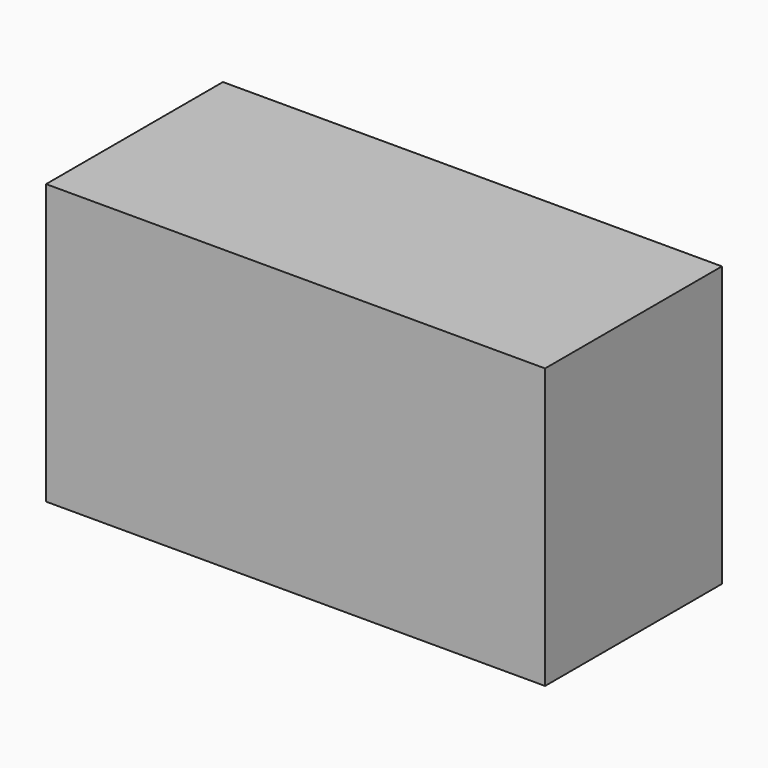
from build123d import *

# Parameters (mm, degrees)
BOX009_W     = 76.75
BOX009_H     = 34
BOX009_DEPTH = 34
BOX012_W     = 76.75
BOX012_H     = 34
BOX012_DEPTH = 43
BOX010_W     = 40
BOX010_H     = 34
BOX010_DEPTH = 34


with BuildPart() as cube009:
    # Box009 → Box009 (new body)
    with BuildSketch(Plane(origin=(-44.75, -43, -3), x_dir=(1, 0, 0), z_dir=(0, 0, 1))):
        with Locations((38.375, 17)):
            Rectangle(BOX009_W, BOX009_H)
    extrude(amount=BOX009_DEPTH)


with BuildPart() as cube012:
    # Box012 → Box012 (new body)
    with BuildSketch(Plane(origin=(-44.75, -43, -7.5), x_dir=(1, 0, 0), z_dir=(0, 0, 1))):
        with Locations((38.375, 17)):
            Rectangle(BOX012_W, BOX012_H)
    extrude(amount=BOX012_DEPTH)


with BuildPart() as obj1:
    # Box010 → Box010 (new body)
    with BuildSketch(Plane(origin=(-8, -43, -3), x_dir=(1, 0, 0), z_dir=(0, 0, 1))):
        with Locations((20, 17)):
            Rectangle(BOX010_W, BOX010_H)
    extrude(amount=BOX010_DEPTH)

    # Fusion009003002004003002004004003002003: union Cube009, Cube012
    add(cube009.part)
    add(cube012.part)


solid = obj1.part
